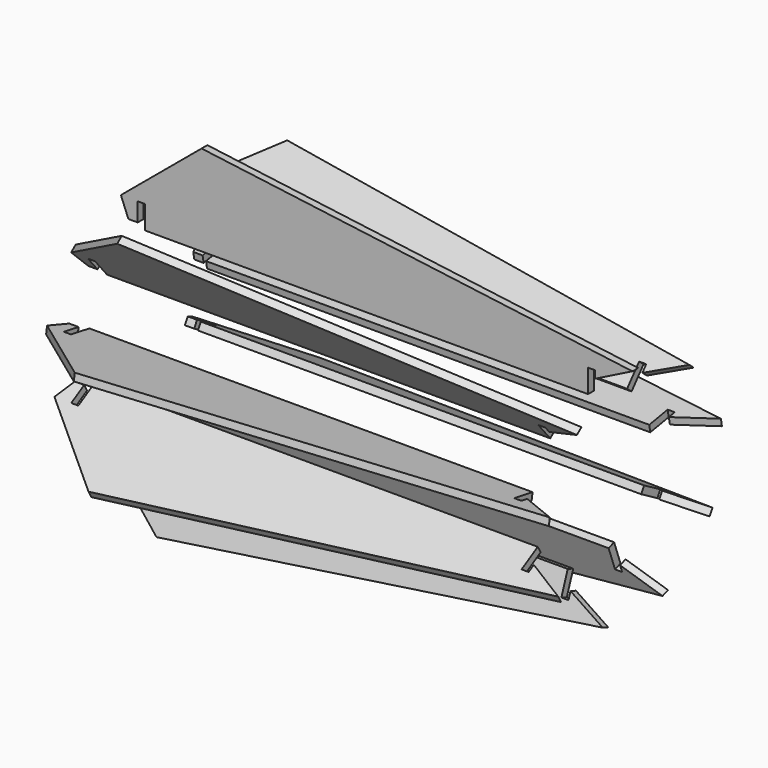
from build123d import *

# Parameters (mm, degrees)
F1_DEPTH = 4.953
F4_COUNT = 9


with BuildPart() as f1:
    # F0 (on Front) → F1 (new body)
    with BuildSketch(Plane.XZ):
        Polygon((-6.35, 0), (0, 0), (0, 12.7), (4.826, 12.7), (4.826, -3.175), (306.324, -3.175), (306.324, 12.7), (311.15, 12.7), (311.15, 7.62), (336.55, 20.32), (43.434, 58.42), (0, 22.225), (-11.43, 12.7), align=None)
    extrude(amount=F1_DEPTH)


with BuildPart() as f4_1:
    # F4: instance of F1
    add(f1.part.rotate(Axis((4.826, -2.4765, -53.975), (-1, 0, 0)), 1 * 360 / F4_COUNT))


with BuildPart() as f4_2:
    # F4: instance of F1
    add(f1.part.rotate(Axis((4.826, -2.4765, -53.975), (-1, 0, 0)), 2 * 360 / F4_COUNT))


with BuildPart() as f4_3:
    # F4: instance of F1
    add(f1.part.rotate(Axis((4.826, -2.4765, -53.975), (-1, 0, 0)), 3 * 360 / F4_COUNT))


with BuildPart() as f4_4:
    # F4: instance of F1
    add(f1.part.rotate(Axis((4.826, -2.4765, -53.975), (-1, 0, 0)), 4 * 360 / F4_COUNT))


with BuildPart() as f4_5:
    # F4: instance of F1
    add(f1.part.rotate(Axis((4.826, -2.4765, -53.975), (-1, 0, 0)), 5 * 360 / F4_COUNT))


with BuildPart() as f4_6:
    # F4: instance of F1
    add(f1.part.rotate(Axis((4.826, -2.4765, -53.975), (-1, 0, 0)), 6 * 360 / F4_COUNT))


with BuildPart() as f4_7:
    # F4: instance of F1
    add(f1.part.rotate(Axis((4.826, -2.4765, -53.975), (-1, 0, 0)), 7 * 360 / F4_COUNT))


with BuildPart() as f4_8:
    # F4: instance of F1
    add(f1.part.rotate(Axis((4.826, -2.4765, -53.975), (-1, 0, 0)), 8 * 360 / F4_COUNT))


solid = Compound([f1.part, f4_1.part, f4_2.part, f4_3.part, f4_4.part, f4_5.part, f4_6.part, f4_7.part, f4_8.part])
